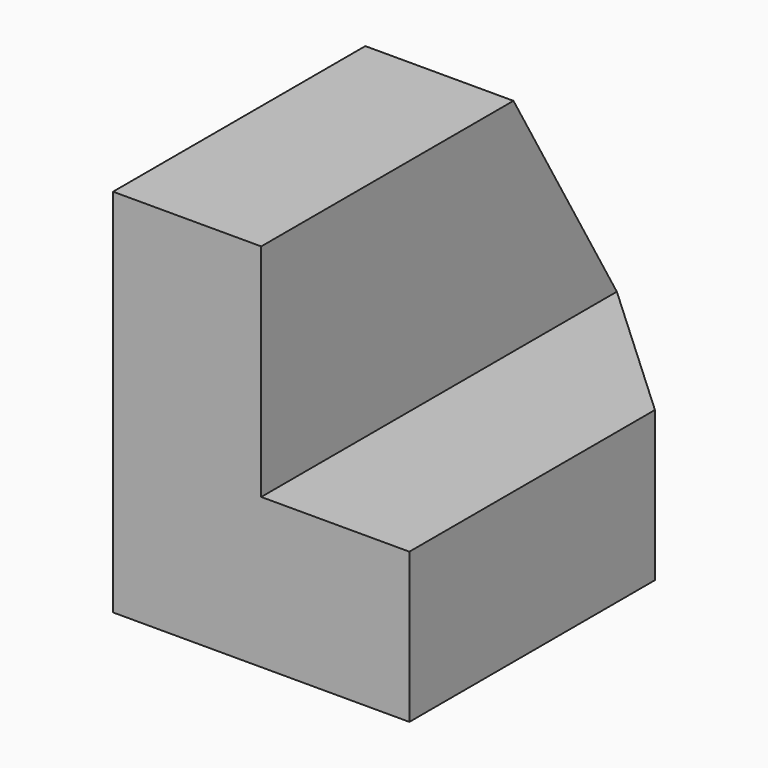
from build123d import *

# Parameters (mm, degrees)
F0_W     = 38.1
F0_H     = 31.75
F1_DEPTH = 25.4
F2_W     = 12.7
F2_H     = 38.1
F3_DEPTH = 25.4
F4_W     = 38.1
F4_H     = 6.494932
F5_DEPTH = 12.7
F7_DEPTH = 25.4
F9_DEPTH = 25.4


with BuildPart() as f1:
    # F0 (on Right) → F1 (new body)
    with BuildSketch(Plane.YZ):
        with Locations((19.05, 15.875)):
            Rectangle(F0_W, F0_H)
    extrude(amount=F1_DEPTH)

    # F2 (on face) → F3 (cut)
    with BuildSketch(Plane.XY.offset(31.75)):
        with Locations((19.05, 19.05)):
            Rectangle(F2_W, F2_H)
    extrude(amount=-F3_DEPTH, mode=Mode.SUBTRACT)

    # F4 (on face) → F5 (join)
    with BuildSketch(Plane.YZ.offset(12.7)):
        with Locations((19.05, 9.597466)):
            Rectangle(F4_W, F4_H)
    extrude(amount=F5_DEPTH)

    # F6 (on face) → F7 (cut)
    with BuildSketch(Plane.YZ.offset(12.7)):
        Polygon((27.024088, 31.75), (38.1, 12.844932), (38.1, 31.75), align=None)
    extrude(amount=-F7_DEPTH, mode=Mode.SUBTRACT)

    # F8 (on face) → F9 (cut)
    with BuildSketch(Plane.XY.offset(12.844932)):
        Polygon((25.4, 38.1), (12.7, 38.1), (25.4, 26.308896), align=None)
    extrude(amount=-F9_DEPTH, mode=Mode.SUBTRACT)


solid = f1.part
